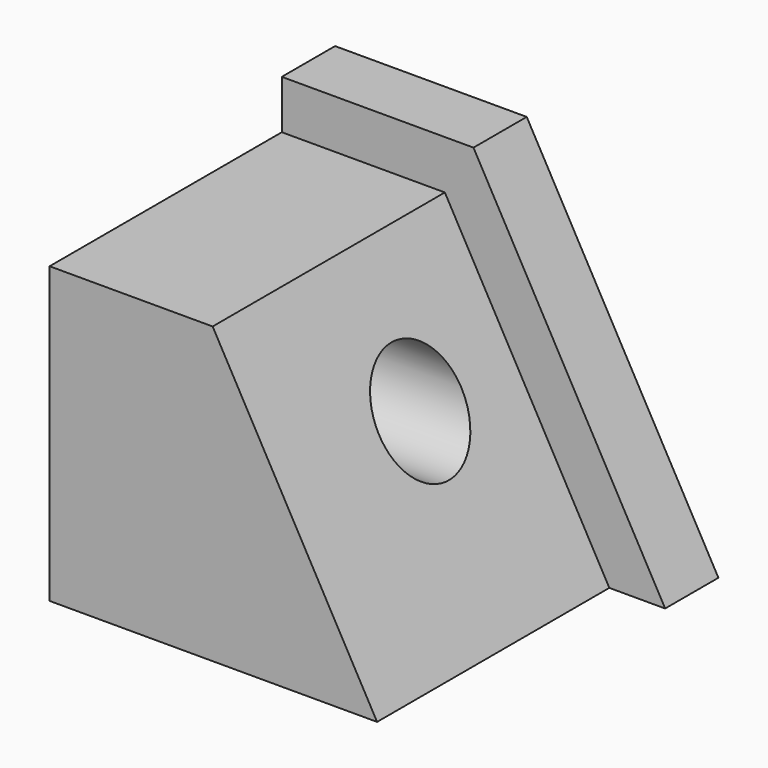
from build123d import *

# Parameters (mm, degrees)
F1_DEPTH = 21.844
F2_DEPTH = 95.25
F3_R     = 16.86574
F4_DEPTH = 63.5


with BuildPart() as f1:
    # F0 (on Front) → F1 (new body)
    with BuildSketch(Plane.XZ):
        Polygon((62.899669, -56.346651), (0, 56.346651), (-62.899669, 56.346651), (-62.899669, 40.344652), (-9.394319, 40.344652), (44.573848, -56.346651), align=None)
        Polygon((-9.394319, 40.344652), (-62.899669, 40.344652), (-62.899669, -56.346651), (44.573848, -56.346651), align=None)
    extrude(amount=-F1_DEPTH)

    # F0 (on Front) → F2 (join)
    with BuildSketch(Plane.XZ):
        Polygon((-9.394319, 40.344652), (-62.899669, 40.344652), (-62.899669, -56.346651), (44.573848, -56.346651), align=None)
    extrude(amount=F2_DEPTH)

    # F3 (on Right) → F4 (cut, symmetric)
    with BuildSketch(Plane.YZ):
        with Locations((-38.252983, 0)):
            Circle(F3_R)
    extrude(amount=F4_DEPTH, both=True, mode=Mode.SUBTRACT)


solid = f1.part
